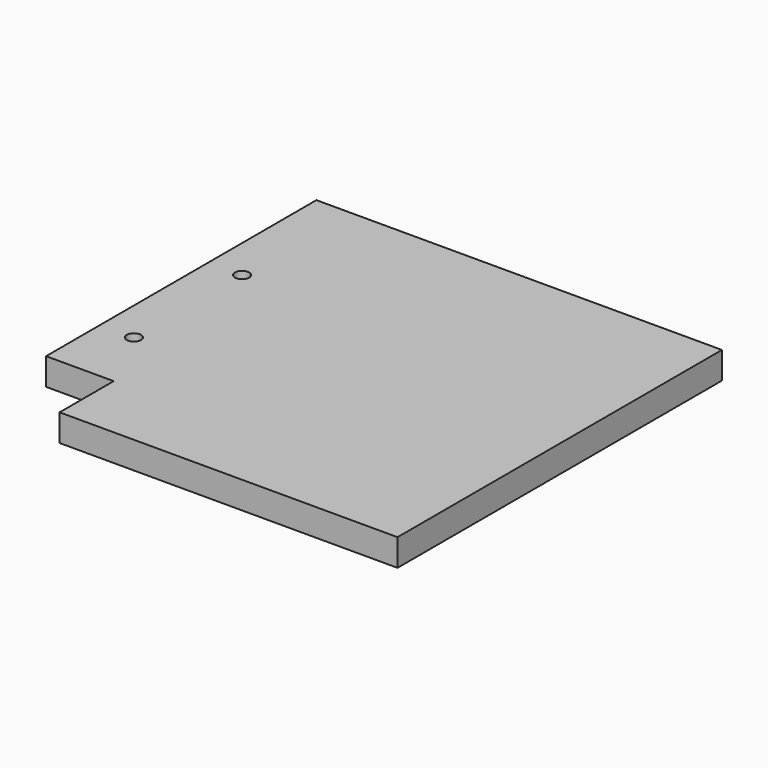
from build123d import *

# Parameters (mm, degrees)
F1_DEPTH = 20
F2_D     = 10.5
F2_DEPTH = 20
F2_TIP   = 3.1545182499


with BuildPart() as f1:
    # F0 (on Top) → F1 (new body)
    with BuildSketch(Plane.XY):
        Polygon((150, 150), (-150, 150), (-150, -100), (-100, -100), (-100, -150), (150, -150), align=None)
    extrude(amount=F1_DEPTH)

    # F2
    with Locations(Plane(origin=(0, 0, 0), x_dir=(1, 0, 0), z_dir=(0, 0, -1))):
        with Locations((-125, -50), (-125, 50)):
            Hole(F2_D / 2, depth=F2_DEPTH)
            with Locations((0, 0, -(F2_DEPTH + F2_TIP / 2))):  # 118° drill point
                Cone(0, F2_D / 2, F2_TIP, mode=Mode.SUBTRACT)


solid = f1.part
